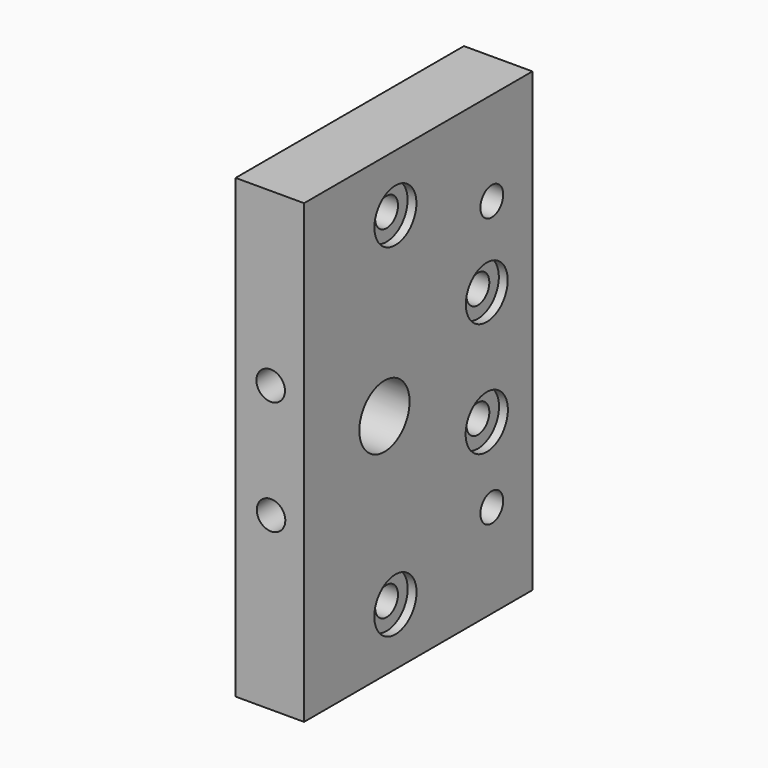
from build123d import *

# Parameters (mm, degrees)
SKETCH014_W     = 80
SKETCH014_H     = 50
SKETCH014_R     = 2.5
SKETCH014_R_2   = 5.5
PAD003_DEPTH    = 12
SKETCH015_R     = 2.5
POCKET009_DEPTH = 11
SKETCH016_R     = 8.05
POCKET010_DEPTH = 4.5
SKETCH017_R     = 4.6
SKETCH017_R_2   = 4.624594
SKETCH017_R_3   = 4.583454
SKETCH017_R_4   = 4.624604
POCKET011_DEPTH = 1.55


with BuildPart() as part:
    # Sketch014 → Pad003 (new body)
    with BuildSketch(Plane(origin=(185, -48, 153), x_dir=(0, 0, -1), z_dir=(-1, 0, 0))):
        with Locations((40, 25)):
            Rectangle(SKETCH014_W, SKETCH014_H)
        with Locations((10, 30)):
            Circle(SKETCH014_R, mode=Mode.SUBTRACT)
        with Locations((30, 10)):
            Circle(SKETCH014_R, mode=Mode.SUBTRACT)
        with Locations((16.4, 8.9)):
            Circle(SKETCH014_R, mode=Mode.SUBTRACT)
        with Locations((50, 10)):
            Circle(SKETCH014_R, mode=Mode.SUBTRACT)
        with Locations((63.6, 8.9)):
            Circle(SKETCH014_R, mode=Mode.SUBTRACT)
        with Locations((70, 30)):
            Circle(SKETCH014_R, mode=Mode.SUBTRACT)
        with Locations((40, 32.4)):
            Circle(SKETCH014_R_2, mode=Mode.SUBTRACT)
    extrude(amount=PAD003_DEPTH)

    # Sketch015 → Pocket009 (cut)
    with BuildSketch(Plane(origin=(185, -98, 153), x_dir=(0, 0, 1), z_dir=(0, -1, 0))):
        with Locations((-30.033846, 5.850095)):
            Circle(SKETCH015_R)
        with Locations((-50.003807, 5.788844)):
            Circle(SKETCH015_R)
    extrude(amount=-POCKET009_DEPTH, mode=Mode.SUBTRACT)

    # Sketch016 → Pocket010 (cut)
    with BuildSketch(Plane(origin=(173, -48, 153), x_dir=(0, 0, -1), z_dir=(-1, 0, 0))):
        with Locations((40, 32.4)):
            Circle(SKETCH016_R)
    extrude(amount=-POCKET010_DEPTH, mode=Mode.SUBTRACT)

    # Sketch017 → Pocket011 (cut)
    with BuildSketch(Plane(origin=(185, -48, 153), x_dir=(0, 0, -1), z_dir=(1, 0, 0))):
        with Locations((10, -30)):
            Circle(SKETCH017_R)
        with Locations((70, -30)):
            Circle(SKETCH017_R_2)
        with Locations((30, -10)):
            Circle(SKETCH017_R_3)
        with Locations((50, -10)):
            Circle(SKETCH017_R_4)
    extrude(amount=-POCKET011_DEPTH, mode=Mode.SUBTRACT)


solid = part.part
